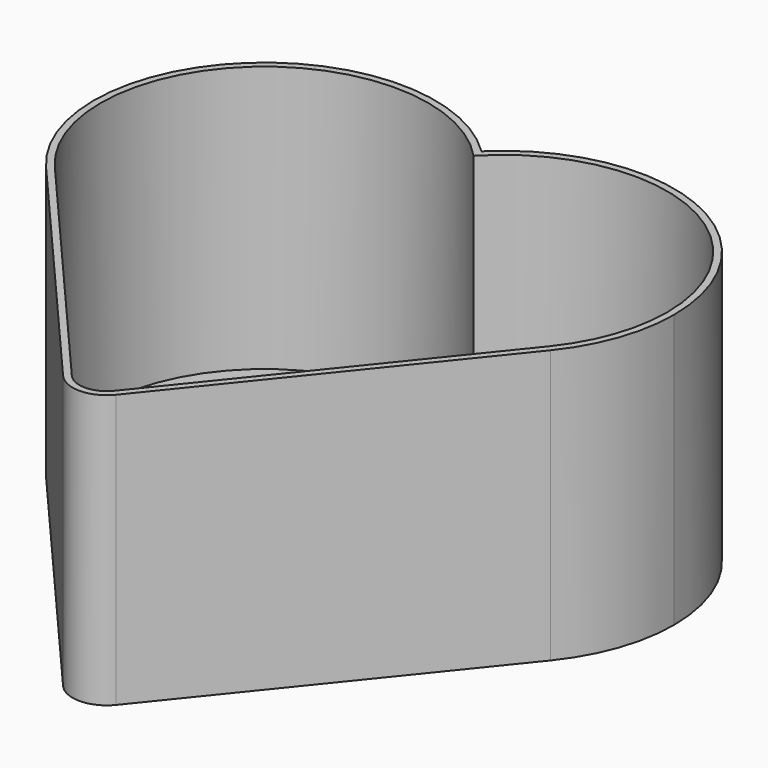
from build123d import *

# Parameters (mm, degrees)
F1_DEPTH = 40
F2_R     = 5
F3_T     = -1


with BuildPart() as f1:
    # F0 (on Top) → F1 (new body)
    with BuildSketch(Plane.XY):
        with BuildLine():
            ThreePointArc((-1.2863303848, -17.8535710714), (4.2625307585, -9.6824583655), (6.2136696152, 0))
            ThreePointArc((6.2136696152, 0), (4.2625307585, 9.6824583655), (-1.2863303848, 17.8535710714))
            ThreePointArc((-1.2863303848, 17.8535710714), (-8.7863303848, 0), (-1.2863303848, -17.8535710714))
        make_face()
        with BuildLine():
            ThreePointArc((-1.2863303848, 17.8535710714), (4.2625307585, 9.6824583655), (6.2136696152, 0))
            ThreePointArc((6.2136696152, 0), (4.2625307585, -9.6824583655), (-1.2863303848, -17.8535710714))
            ThreePointArc((-1.2863303848, -17.8535710714), (17.6817434111, -24.9568579619), (35.6861864672, -15.6786825802))
            ThreePointArc((35.6861864672, -15.6786825802), (39.7913383009, -8.3122523633), (41.2136696152, 0))
            ThreePointArc((41.2136696152, 0), (25.8961279808, 23.0488611432), (-1.2863303848, 17.8535710714))
        make_face()
        with BuildLine():
            ThreePointArc((-1.2863303848, -17.8535710714), (-8.7863303848, 0), (-1.2863303848, 17.8535710714))
            ThreePointArc((-1.2863303848, 17.8535710714), (-35.8982282908, 18.2258868112), (-37.7066974288, -16.3407377715))
            ThreePointArc((-37.7066974288, -16.3407377715), (-19.8238884715, -24.9784601851), (-1.2863303848, -17.8535710714))
        make_face()
        with BuildLine():
            ThreePointArc((35.6861864672, -15.6786825802), (17.6817434111, -24.9568579619), (-1.2863303848, -17.8535710714))
            ThreePointArc((-1.2863303848, -17.8535710714), (-19.8238884715, -24.9784601851), (-37.7066974288, -16.3407377715))
            Line((-37.7066974288, -16.3407377715), (0, -60))
            Line((0, -60), (35.6861864672, -15.6786825802))
        make_face()
    extrude(amount=F1_DEPTH)

    # F2
    f2_edges = [f1.edges().sort_by_distance(p)[0] for p in [
        (0, -60, 20),
    ]]
    fillet(f2_edges, radius=F2_R)

    # F3
    f3_openings = [f1.faces().sort_by_distance(p)[0] for p in [
        (-1.14081, -8.463934, 40),
    ]]
    offset(amount=F3_T, openings=f3_openings, kind=Kind.INTERSECTION)


solid = f1.part
